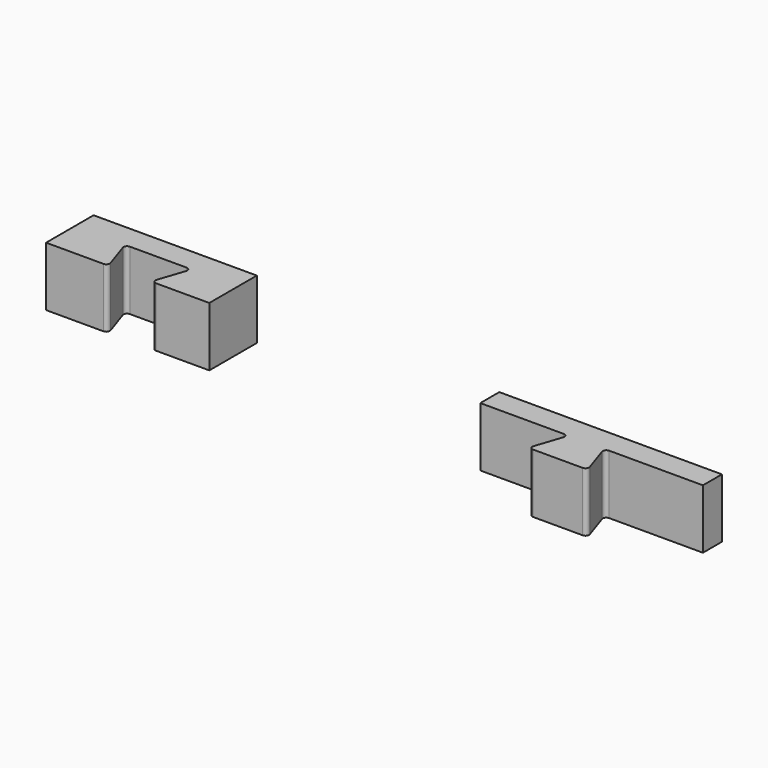
from build123d import *

# Parameters (mm, degrees)
PAD_DEPTH = 5
FILLET_R  = 0.3


with BuildPart() as part:
    # Sketch → Pad (new body)
    with BuildSketch(Plane.XY):
        Polygon((18.123922, 2), (36.870991, 2), (36.870991, 0), (28.559592, 0), (29.559592, -3), (24.559592, -3), (25.559592, 0), (18.123922, 0), align=None)
        Polygon((-18.439316, 0), (-13.193694, 0), (-14.193694, 3), (-8.593694, 3), (-9.593694, 0), (-4.694093, 0), (-4.694093, 5), (-18.439316, 5), align=None)
    extrude(amount=PAD_DEPTH)

    # Fillet
    fillet_edges = [part.edges().sort_by_distance(p)[0] for p in [
        (-13.193694, 0, 2.5),
        (29.559592, -3, 2.5),
        (-14.193694, 3, 2.5),
        (28.559592, 0, 2.5),
        (-8.593694, 3, 2.5),
        (-9.593694, 0, 2.5),
        (25.559592, 0, 2.5),
        (24.559592, -3, 2.5),
    ]]
    fillet(fillet_edges, radius=FILLET_R)


solid = part.part
